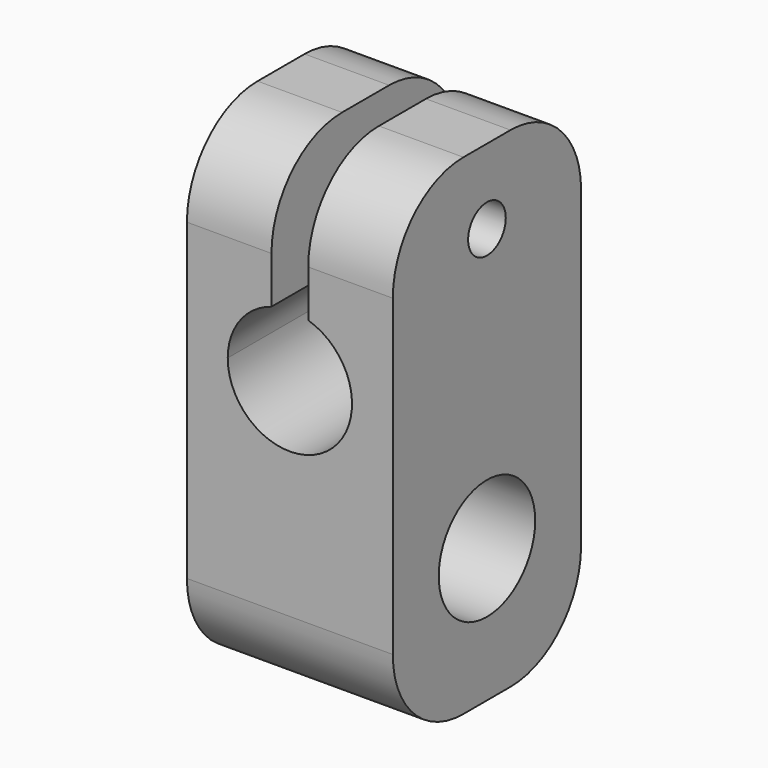
from build123d import *

# Parameters (mm, degrees)
F0_W     = 16
F0_H     = 33.325
F0_R     = 4.1
F0_R_2   = 4.225
F0_R_3   = 1.6
F1_DEPTH = 14
F3_DEPTH = 16
F4_R     = 6


with BuildPart() as f1:
    # F0 (on Right) → F1 (new body)
    with BuildSketch(Plane.YZ):
        with Locations((8, 16.6625)):
            Rectangle(F0_W, F0_H)
        with Locations((8, 9.1)):
            Circle(F0_R, mode=Mode.SUBTRACT)
        with Locations((8, 20.1)):
            Circle(F0_R_2, mode=Mode.SUBTRACT)
        with Locations((8, 28.225)):
            Circle(F0_R_3, mode=Mode.SUBTRACT)
        with Locations((8, 20.1)):
            Circle(F0_R_2)
    extrude(amount=F1_DEPTH)

    # F2 (on face) → F3 (cut, through all)
    with BuildSketch(Plane(origin=(0, 16, 0), x_dir=(-1, 0, 0), z_dir=(0, 1, 0))):
        with BuildLine():
            ThreePointArc((-8.25, 24.135855), (-9.506928, 16.699127), (-2.775, 20.1))
            ThreePointArc((-2.775, 20.1), (-3.599127, 22.606928), (-5.75, 24.135855))
            ThreePointArc((-5.75, 24.135855), (-7, 24.325), (-8.25, 24.135855))
        make_face()
        with BuildLine():
            ThreePointArc((-8.25, 24.135855), (-7, 24.325), (-5.75, 24.135855))
            Line((-5.75, 24.135855), (-5.75, 33.325))
            Line((-5.75, 33.325), (-8.25, 33.325))
            Line((-8.25, 33.325), (-8.25, 24.135855))
        make_face()
    extrude(amount=-F3_DEPTH, mode=Mode.SUBTRACT)

    # F4
    f4_edges = [f1.edges().sort_by_distance(p)[0] for p in [
        (7, 16, 0),
        (7, 0, 0),
        (11.125, 0, 33.325),
        (2.875, 0, 33.325),
        (11.125, 16, 33.325),
        (2.875, 16, 33.325),
    ]]
    fillet(f4_edges, radius=F4_R)


solid = f1.part
